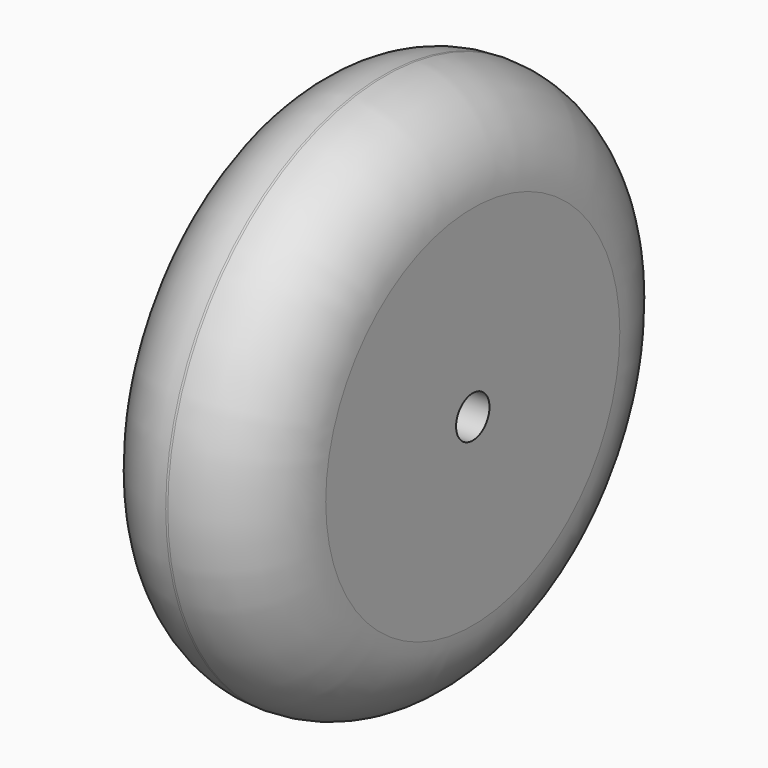
from build123d import *

# Parameters (mm, degrees)
F0_R     = 130
F1_DEPTH = 85
F3_D     = 20
F3_DEPTH = 85
F4_R     = 42


with BuildPart() as f1:
    # F0 (on Right) → F1 (new body)
    with BuildSketch(Plane.YZ):
        Circle(F0_R)
    extrude(amount=F1_DEPTH)

    # F3
    with Locations(Plane.YZ.offset(85)):
        with Locations((0, 0)):
            Hole(F3_D / 2, depth=F3_DEPTH)

    # F4
    f4_edges = [f1.edges().sort_by_distance(p)[0] for p in [
        (0, -130, 0),
        (85, -130, 0),
    ]]
    fillet(f4_edges, radius=F4_R)


solid = f1.part
